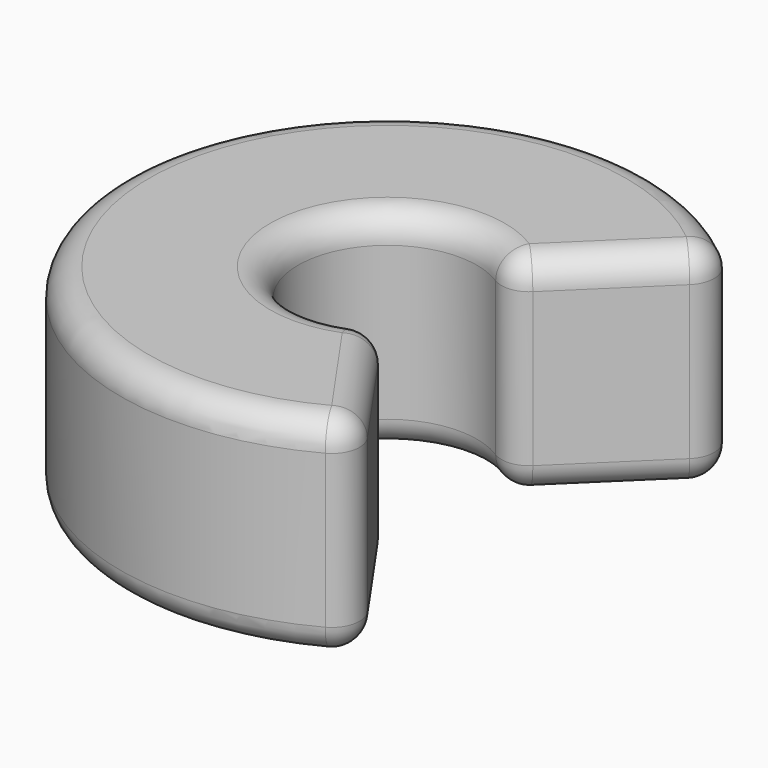
from build123d import *

# Parameters (mm, degrees)
F1_DEPTH = 15
F2_R     = 2


with BuildPart() as f1:
    # F0 (on Top) → F1 (new body)
    with BuildSketch(Plane.XY):
        with BuildLine():
            Line((4.6077055799, 4.4834639686), (13.7244802309, 13.3544150197))
            ThreePointArc((13.7244802309, 13.3544150197), (-19.0624394151, 1.8235025839), (10.9437953133, -15.7141688379))
            Line((10.9437953133, -15.7141688379), (3.6741491031, -5.275701682))
            ThreePointArc((3.6741491031, -5.275701682), (-6.3998131064, 0.61220264), (4.6077055799, 4.4834639686))
        make_face()
    extrude(amount=F1_DEPTH)

    # F2
    f2_edges = [f1.edges().sort_by_distance(p)[0] for p in [
        (9.166093, 8.918939, 15),
        (-19.062439, 1.823503, 15),
        (7.308972, -10.494935, 15),
        (-6.399813, 0.612203, 15),
        (-19.062439, 1.823503, 0),
        (10.943795, -15.714169, 7.5),
        (3.674149, -5.275702, 7.5),
        (7.308972, -10.494935, 0),
        (4.607706, 4.483464, 7.5),
        (13.72448, 13.354415, 7.5),
        (9.166093, 8.918939, 0),
        (-6.399813, 0.612203, 0),
    ]]
    fillet(f2_edges, radius=F2_R)


solid = f1.part
